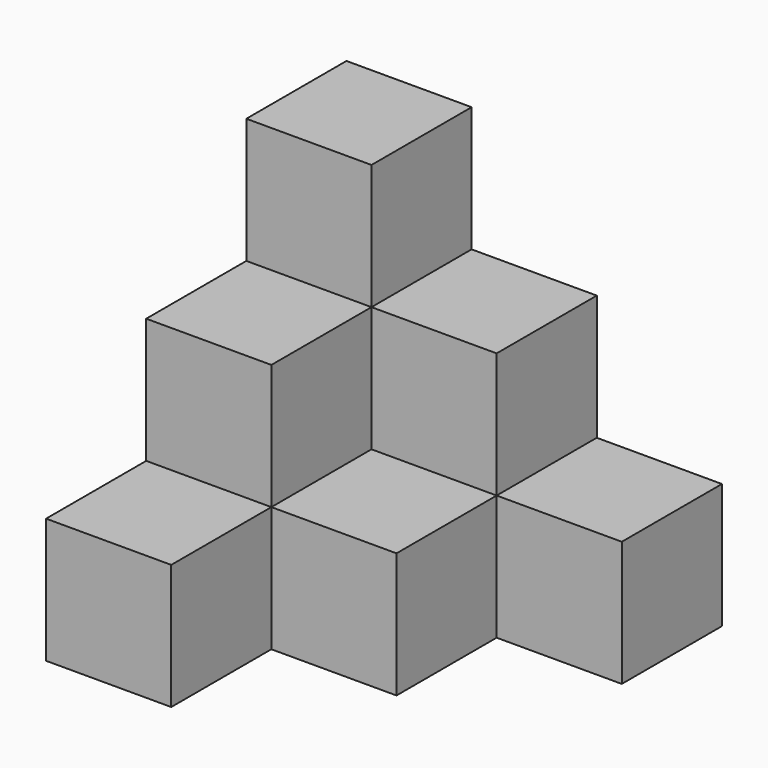
from build123d import *

# Parameters (mm, degrees)
BOX_W        = 10
BOX_H        = 10
BOX_DEPTH    = 20
BOX001_W     = 10
BOX001_H     = 10
BOX001_DEPTH = 30
BOX002_W     = 10
BOX002_H     = 10
BOX002_DEPTH = 20
BOX003_W     = 10
BOX003_H     = 10
BOX003_DEPTH = 10
BOX004_W     = 10
BOX004_H     = 10
BOX004_DEPTH = 10
BOX005_W     = 10
BOX005_H     = 10
BOX005_DEPTH = 10


with BuildPart() as cube:
    # Box → Box (new body)
    with BuildSketch(Plane.XY):
        with Locations((5, 5)):
            Rectangle(BOX_W, BOX_H)
    extrude(amount=BOX_DEPTH)


with BuildPart() as cube001:
    # Box001 → Box001 (new body)
    with BuildSketch(Plane(origin=(-10, 0, 0), x_dir=(1, 0, 0), z_dir=(0, 0, 1))):
        with Locations((5, 5)):
            Rectangle(BOX001_W, BOX001_H)
    extrude(amount=BOX001_DEPTH)


with BuildPart() as cube002:
    # Box002 → Box002 (new body)
    with BuildSketch(Plane(origin=(-10, -10, 0), x_dir=(1, 0, 0), z_dir=(0, 0, 1))):
        with Locations((5, 5)):
            Rectangle(BOX002_W, BOX002_H)
    extrude(amount=BOX002_DEPTH)


with BuildPart() as cube003:
    # Box003 → Box003 (new body)
    with BuildSketch(Plane(origin=(10, 0, 0), x_dir=(1, 0, 0), z_dir=(0, 0, 1))):
        with Locations((5, 5)):
            Rectangle(BOX003_W, BOX003_H)
    extrude(amount=BOX003_DEPTH)


with BuildPart() as cube004:
    # Box004 → Box004 (new body)
    with BuildSketch(Plane(origin=(-10, -20, 0), x_dir=(1, 0, 0), z_dir=(0, 0, 1))):
        with Locations((5, 5)):
            Rectangle(BOX004_W, BOX004_H)
    extrude(amount=BOX004_DEPTH)


with BuildPart() as cube005:
    # Box005 → Box005 (new body)
    with BuildSketch(Plane(origin=(0, -10, 0), x_dir=(1, 0, 0), z_dir=(0, 0, 1))):
        with Locations((5, 5)):
            Rectangle(BOX005_W, BOX005_H)
    extrude(amount=BOX005_DEPTH)


solid = Compound([cube.part, cube001.part, cube002.part, cube003.part, cube004.part, cube005.part])
